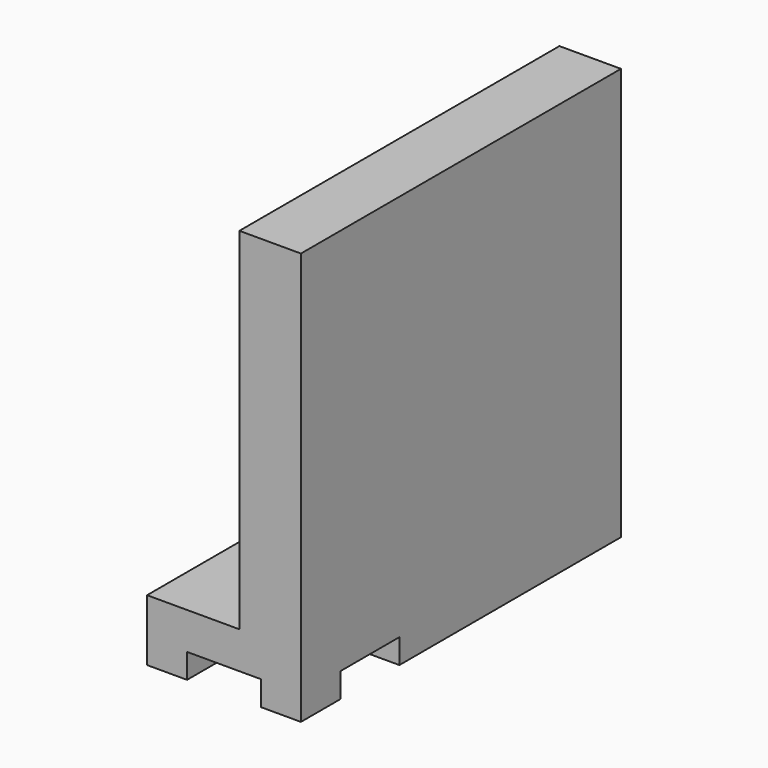
from build123d import *

# Parameters (mm, degrees)
F0_W     = 25
F0_H     = 65
F1_DEPTH = 10
F2_W     = 10
F2_H     = 65
F3_DEPTH = 57
F4_R     = 3.175
F5_DEPTH = 6
F7_DEPTH = 4
F8_R     = 3.175
F9_DEPTH = 3


with BuildPart() as f1:
    # F0 (on Top) → F1 (new body)
    with BuildSketch(Plane.XY):
        Rectangle(F0_W, F0_H)
    extrude(amount=F1_DEPTH)

    # F2 (on face) → F3 (join)
    with BuildSketch(Plane.XY.offset(10)):
        with Locations((7.5, 0)):
            Rectangle(F2_W, F2_H)
    extrude(amount=F3_DEPTH)

    # F4 (on face) → F5 (cut)
    with BuildSketch(Plane(origin=(0, 0, 0), x_dir=(1, 0, 0), z_dir=(0, 0, -1))):
        Circle(F4_R)
    extrude(amount=-F5_DEPTH, mode=Mode.SUBTRACT)

    # F6 (on face) → F7 (cut)
    with BuildSketch(Plane(origin=(0, 0, 0), x_dir=(1, 0, 0), z_dir=(0, 0, -1))):
        with BuildLine():
            Line((6, 24.5), (6, 52.5))
            Line((6, 52.5), (-6, 52.5))
            Line((-6, 52.5), (-6, 18.5))
            ThreePointArc((-6, 18.5), (-4.242641, 14.257359), (0, 12.5))
            ThreePointArc((0, 12.5), (4.242641, 14.257359), (6, 18.5))
            Line((6, 18.5), (6, 24.5))
        make_face()
        with BuildLine():
            Line((29.926794, 24.5), (6, 24.5))
            Line((6, 24.5), (6, 18.5))
            ThreePointArc((6, 18.5), (4.242641, 14.257359), (0, 12.5))
            Line((0, 12.5), (29.926794, 12.5))
            Line((29.926794, 12.5), (29.926794, 24.5))
        make_face()
    extrude(amount=-F7_DEPTH, mode=Mode.SUBTRACT)

    # F8 (on face) → F9 (cut)
    with BuildSketch(Plane(origin=(0, 0, 4), x_dir=(1, 0, 0), z_dir=(0, 0, -1))):
        with Locations((0, 18.5)):
            Circle(F8_R)
    extrude(amount=-F9_DEPTH, mode=Mode.SUBTRACT)


solid = f1.part
